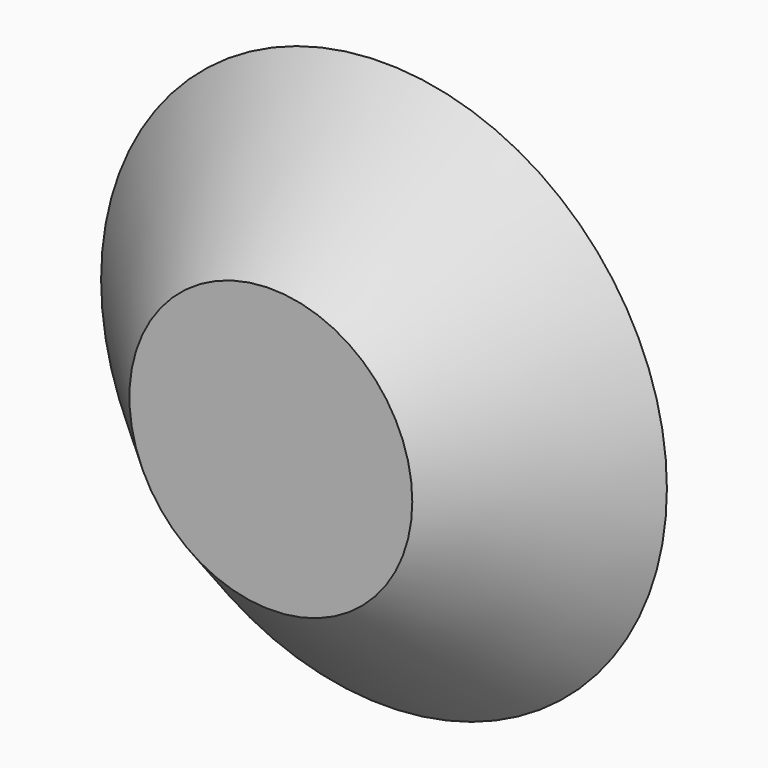
from build123d import *

# Parameters (mm, degrees)
F0_R     = 50.8
F2_R     = 25.4
F4_R     = 19.05
F5_DEPTH = 6.35


with BuildPart() as f3:
    # F0 (on Front) → F3 section 0
    with BuildSketch(Plane.XZ):
        Circle(F0_R)
    # F2 (on offset) → F3 section 1
    with BuildSketch(Plane.XZ.offset(25.4)):
        Circle(F2_R)
    loft()

    # F4 (on face) → F5 (join)
    with BuildSketch(Plane(origin=(0, 0, 0), x_dir=(-1, 0, 0), z_dir=(0, 1, 0))):
        Circle(F4_R)
    extrude(amount=F5_DEPTH)


solid = f3.part
